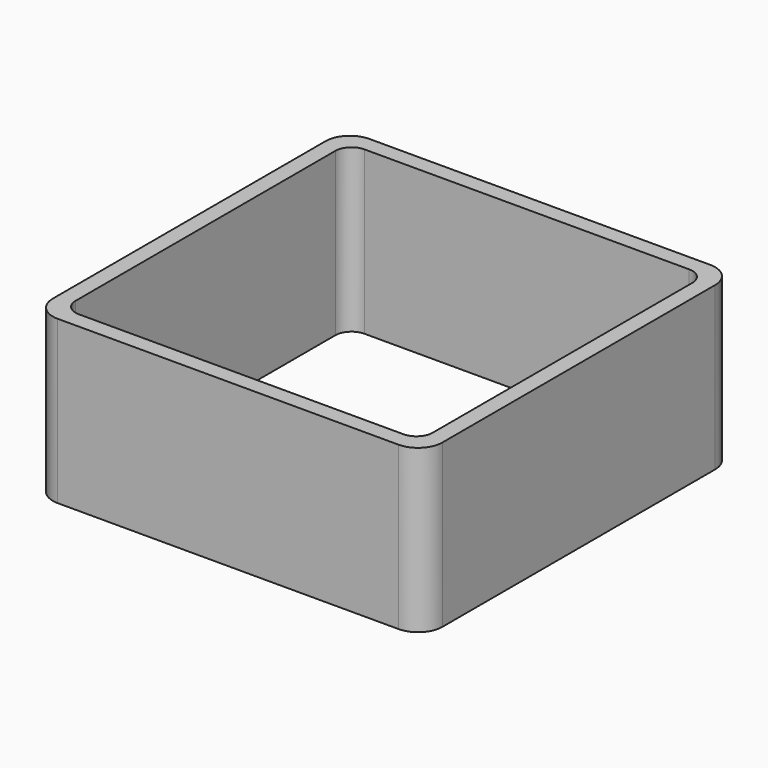
from build123d import *

# Parameters (mm, degrees)
EXTRUDE_DEPTH = 50


with BuildPart() as part:
    # Sketch → Extrude (new body)
    with BuildSketch(Plane.XY):
        with BuildLine():
            Line((-52.5, 60), (52.5, 60))
            ThreePointArc((60, 52.5), (57.803301, 57.803301), (52.5, 60))
            Line((60, 52.5), (60, -52.5))
            ThreePointArc((52.5, -60), (57.803301, -57.803301), (60, -52.5))
            Line((52.5, -60), (-52.5, -60))
            ThreePointArc((-60, -52.5), (-57.803301, -57.803301), (-52.5, -60))
            Line((-60, -52.5), (-60, 52.5))
            ThreePointArc((-52.5, 60), (-57.803301, 57.803301), (-60, 52.5))
        make_face()
        with BuildLine():
            Line((-50, 55), (50, 55))
            ThreePointArc((55, 50), (53.535534, 53.535534), (50, 55))
            Line((55, 50), (55, -50))
            ThreePointArc((50, -55), (53.535534, -53.535534), (55, -50))
            Line((50, -55), (-50, -55))
            ThreePointArc((-55, -50), (-53.535534, -53.535534), (-50, -55))
            Line((-55, -50), (-55, 50))
            ThreePointArc((-50, 55), (-53.535534, 53.535534), (-55, 50))
        make_face(mode=Mode.SUBTRACT)
    extrude(amount=EXTRUDE_DEPTH)


solid = part.part
